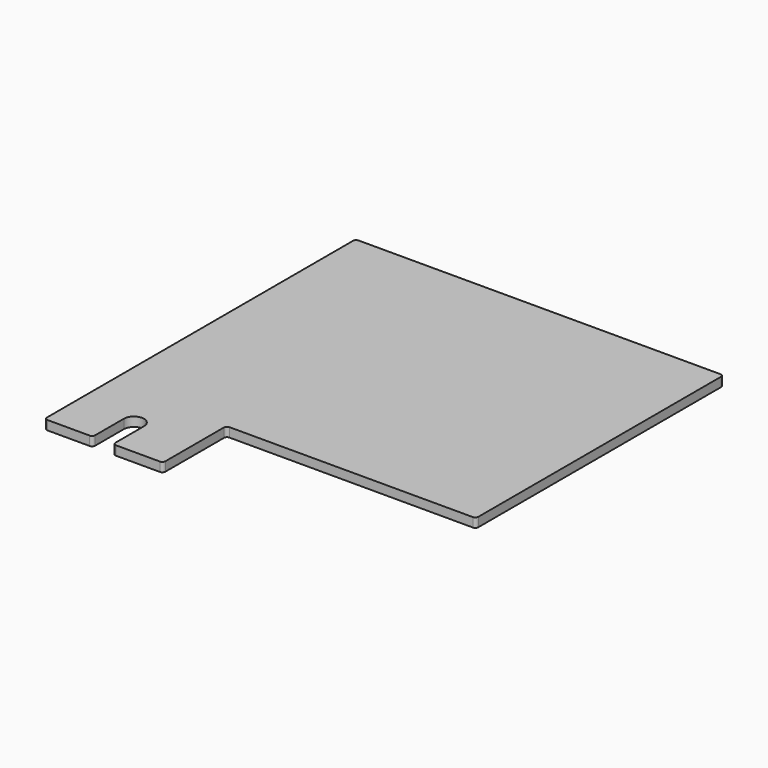
from build123d import *

# Parameters (mm, degrees)
PAD_DEPTH = 3


with BuildPart() as part:
    # Sketch → Pad (new body)
    with BuildSketch(Plane.XY):
        with BuildLine():
            Line((0, 126), (0, 1))
            ThreePointArc((0, 1), (0.292893, 0.292893), (1, 0))
            Line((1, 0), (14.748, 0))
            ThreePointArc((14.748, 0), (15.455107, 0.292893), (15.748, 1))
            Line((15.748, 12.7), (15.748, 1))
            ThreePointArc((22.352, 12.7), (19.05, 16.002), (15.748, 12.7))
            Line((22.352, 12.7), (22.352, 1))
            ThreePointArc((22.352, 1), (22.644893, 0.292893), (23.352, 0))
            Line((23.352, 0), (37.7002, 0))
            ThreePointArc((37.7002, 0), (38.407307, 0.292893), (38.7002, 1))
            Line((38.7002, 1), (38.7002, 24.9))
            ThreePointArc((39.7002, 25.9), (38.993093, 25.607107), (38.7002, 24.9))
            Line((39.7002, 25.9), (119.2001, 25.9))
            ThreePointArc((119.2001, 25.9), (119.907207, 26.192893), (120.2001, 26.9))
            Line((120.2001, 26.9), (120.2001, 126))
            ThreePointArc((120.2001, 126), (119.907207, 126.707107), (119.2001, 127))
            Line((119.2001, 127), (1, 127))
            ThreePointArc((1, 127), (0.292893, 126.707107), (0, 126))
        make_face()
    extrude(amount=PAD_DEPTH)


solid = part.part
